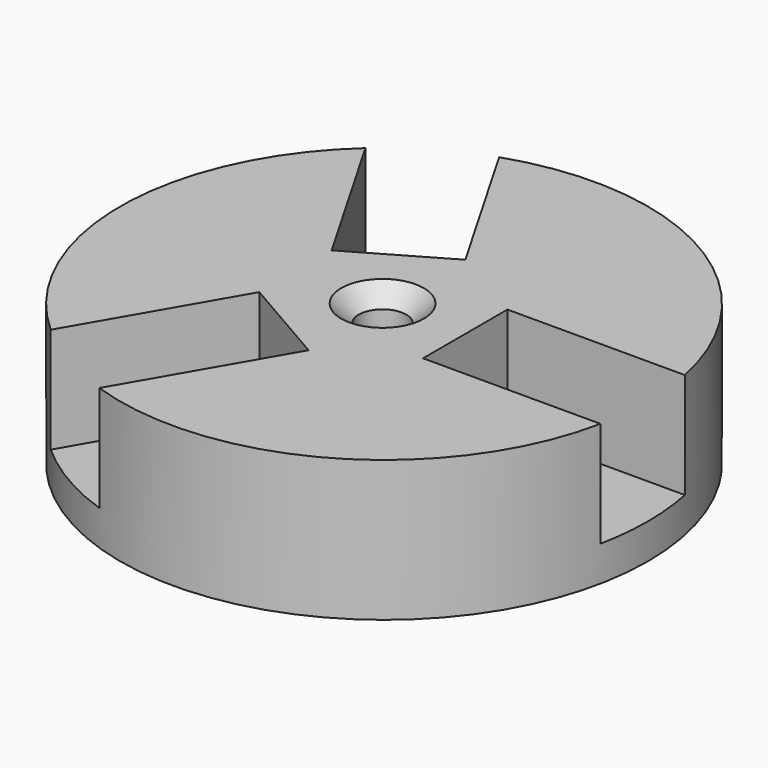
from build123d import *

# Parameters (mm, degrees)
SKETCH_R        = 15
SKETCH_R_2      = 1.35
PAD_DEPTH       = 8
POCKET_DEPTH    = 6
SKETCH002_R     = 1.35
POCKET001_DEPTH = 5
CHAMFER_SIZE    = 1


with BuildPart() as part:
    # Sketch → Pad (new body)
    with BuildSketch(Plane.XY):
        with Locations((0.085228, 0)):
            Circle(SKETCH_R)
        Circle(SKETCH_R_2, mode=Mode.SUBTRACT)
    extrude(amount=PAD_DEPTH)

    # Sketch001 → Pocket (cut)
    with BuildSketch(Plane.XY.offset(8)):
        with BuildLine():
            Line((4.698986, 3), (14.798986, 3))
            ThreePointArc((14.798986, -3), (15.1, 0), (14.798986, 3))
            Line((4.698986, -3), (14.798986, -3))
            Line((4.698986, 3), (4.698986, -3))
        make_face()
        with BuildLine():
            Line((-9.997569, 11.316298), (-4.947569, 2.569442))
            Line((-4.947569, 2.569442), (0.248583, 5.569442))
            Line((0.248583, 5.569442), (-4.801417, 14.316298))
            ThreePointArc((-4.801417, 14.316298), (-7.55, 13.076984), (-9.997569, 11.316298))
        make_face()
        with BuildLine():
            Line((-9.997569, -11.316298), (-4.947569, -2.569442))
            Line((-4.947569, -2.569442), (0.248583, -5.569442))
            Line((0.248583, -5.569442), (-4.801417, -14.316298))
            ThreePointArc((-9.997569, -11.316298), (-7.55, -13.076984), (-4.801417, -14.316298))
        make_face()
    extrude(amount=-POCKET_DEPTH, mode=Mode.SUBTRACT)

    # Sketch002 → Pocket001 (cut)
    with BuildSketch(Plane(origin=(0, 0, 0), x_dir=(1, 0, 0), z_dir=(0, 0, -1))):
        with Locations((10, 0)):
            Circle(SKETCH002_R)
        with Locations((-5, 8.660254)):
            Circle(SKETCH002_R)
        with Locations((-5, -8.660254)):
            Circle(SKETCH002_R)
    extrude(amount=-POCKET001_DEPTH, mode=Mode.SUBTRACT)

    # Chamfer
    chamfer_edges = [part.edges().sort_by_distance(p)[0] for p in [
        (-1.35, 0, 8),
    ]]
    chamfer(chamfer_edges, length=CHAMFER_SIZE)


solid = part.part
